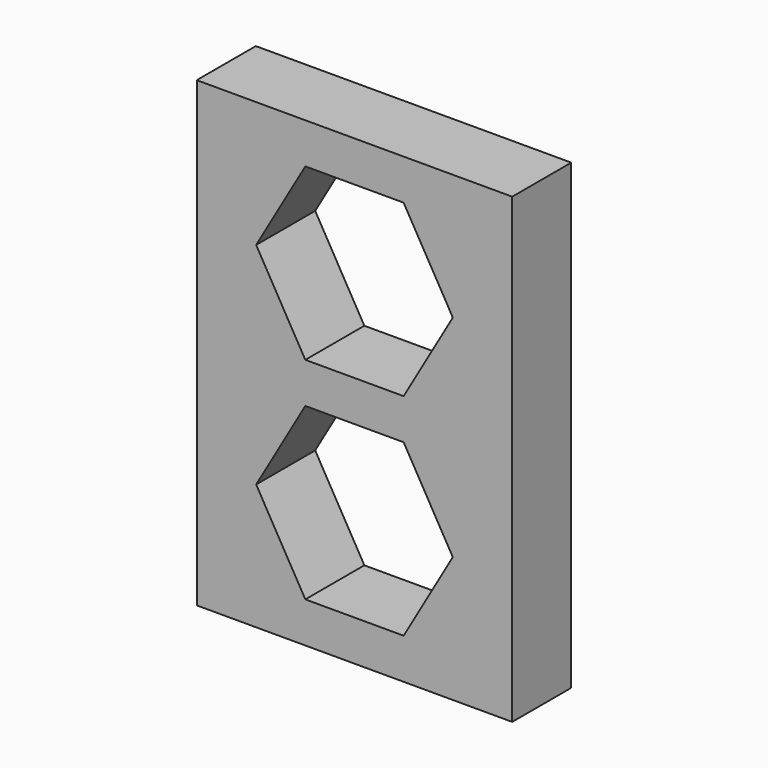
from build123d import *

# Parameters (mm, degrees)
SKETCH_W        = 85.5
SKETCH_H        = 20
PAD_DEPTH       = 127.2
PAD_FACE5_W     = 20
PAD_FACE5_H     = 85.5
POCKET_DEPTH    = 1.88
POCKET001_DEPTH = 20.001


with BuildPart() as part:
    # Sketch → Pad (new body)
    with BuildSketch(Plane.XY):
        Rectangle(SKETCH_W, SKETCH_H)
    extrude(amount=PAD_DEPTH)

    # Pad Face5 → Pocket (cut)
    with BuildSketch(Plane(origin=(0, 0, 0), x_dir=(0, -1, 0), z_dir=(0, 0, -1))):
        Rectangle(PAD_FACE5_W, PAD_FACE5_H)
    extrude(amount=-POCKET_DEPTH, mode=Mode.SUBTRACT)

    # Sketch001 (on Face1 of Pocket) → Pocket001 (cut, through all)
    with BuildSketch(Plane.XZ.offset(10)):
        Polygon((13.325244, 70.04), (26.650488, 93.12), (13.325244, 116.2), (-13.325244, 116.2), (-26.650488, 93.12), (-13.325244, 70.04), align=None)
        Polygon((13.325244, 12.88), (26.650488, 35.96), (13.325244, 59.04), (-13.325244, 59.04), (-26.650488, 35.96), (-13.325244, 12.88), align=None)
    extrude(amount=-POCKET001_DEPTH, mode=Mode.SUBTRACT)


solid = part.part
